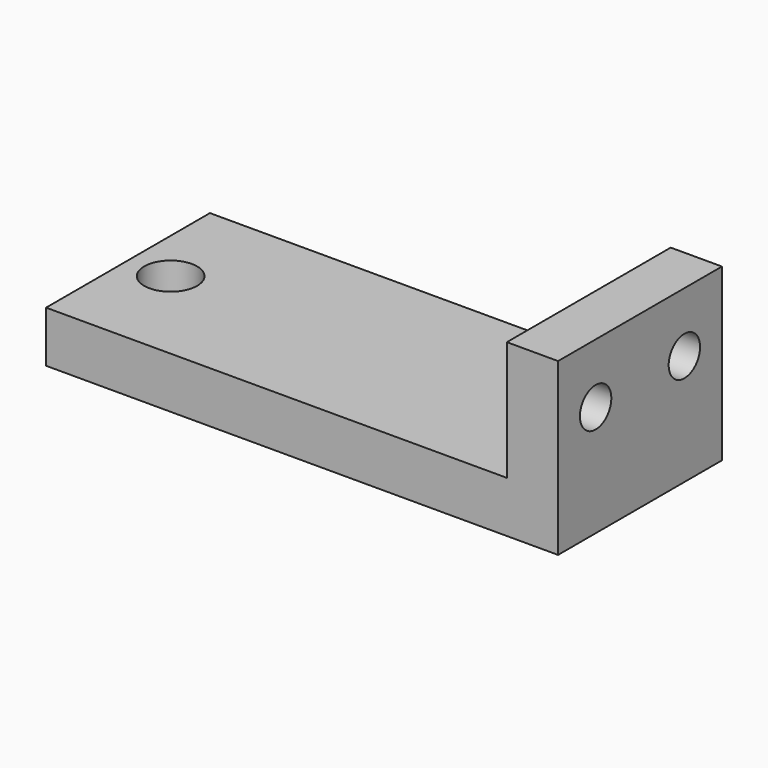
from build123d import *

# Parameters (mm, degrees)
F0_W     = 30
F0_H     = 12
F0_R     = 1.55
F1_DEPTH = 3
F2_W     = 12
F2_H     = 10
F2_R     = 1.15
F3_DEPTH = 3


with BuildPart() as f1:
    # F0 (on Top) → F1 (new body)
    with BuildSketch(Plane.XY):
        Rectangle(F0_W, F0_H)
        with Locations((-12.5, 0)):
            Circle(F0_R, mode=Mode.SUBTRACT)
    extrude(amount=F1_DEPTH)

    # F2 (on face) → F3 (join)
    with BuildSketch(Plane.YZ.offset(15)):
        with Locations((0, 5)):
            Rectangle(F2_W, F2_H)
        with Locations((-3.25, 6.5)):
            Circle(F2_R, mode=Mode.SUBTRACT)
        with Locations((3.25, 6.5)):
            Circle(F2_R, mode=Mode.SUBTRACT)
    extrude(amount=-F3_DEPTH)


solid = f1.part
